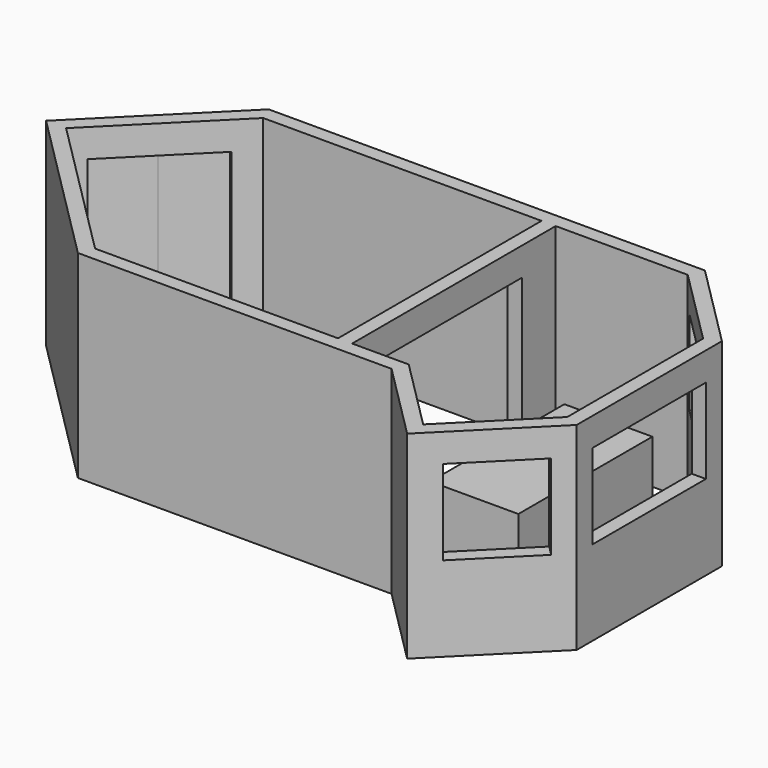
from build123d import *

# Parameters (mm, degrees)
F1_DEPTH  = 2133.6
F2_W      = 609.6
F2_H      = 1828.8
F3_DEPTH  = 38.1
F5_W      = 1219.2
F5_H      = 304.8
F6_DEPTH  = 152.4
F7_W      = 1524
F7_H      = 914.4
F8_DEPTH  = 152.4
F9_W      = 1828.8
F9_H      = 304.8
F10_DEPTH = 152.4
F11_W     = 914.4
F11_H     = 914.4
F12_DEPTH = 152.4
F13_W     = 914.4
F13_H     = 914.4
F14_DEPTH = 152.4
F15_W     = 947.42
F15_H     = 1803.4
F16_DEPTH = 787.4


with BuildPart() as f1:
    # F0 (on Top) → F1 (new body)
    with BuildSketch(Plane.XY):
        Polygon((-190.3130734528, -190.3130734528), (0, 0), (2997.2, 0), (2997.2, -455.7045876226), (3149.6, -455.7045876226), (3149.6, 0), (4572, 0), (5398.1835631384, -826.1835631384), (5398.1835631384, -2654.9835631384), (4536.0789755157, -3517.088150761), (3759.2, -2740.2091752453), (3149.6, -2740.2091752453), (3149.6, -2284.5045876226), (2997.2, -2284.5045876226), (2997.2, -2740.2091752453), (381, -2740.2091752453), (-1179.6045876226, -1179.6045876226), (-1052.4176610755, -1052.4176610755), (-1160.1807345283, -944.6545876226), (-1395.1307345283, -1179.6045876226), (317.8738530943, -2892.6091752453), (3696.0738530943, -2892.6091752453), (4536.0789755157, -3732.6142976667), (5550.5835631384, -2718.109710044), (5550.5835631384, -763.0574162327), (4635.1261469057, 152.4), (-63.1261469057, 152.4), (-298.0761469057, -82.55), align=None)
    extrude(amount=F1_DEPTH)

    # F5 (on face) → F6 (join, through all)
    with BuildSketch(Plane(origin=(-107.7630734528, 107.7630734528, 0), x_dir=(-0.7071067812, -0.7071067812, 0), z_dir=(-0.7071067812, 0.7071067812, 0))):
        with Locations((878.7433295739, 1981.2)):
            Rectangle(F5_W, F5_H)
    extrude(amount=-F6_DEPTH)

    # F7 (on face) → F8 (cut, through all)
    with BuildSketch(Plane.YZ.offset(5550.5835631384)):
        with Locations((-1740.5835631384, 1371.6)):
            Rectangle(F7_W, F7_H)
    extrude(amount=-F8_DEPTH, mode=Mode.SUBTRACT)

    # F9 (on face) → F10 (join, through all)
    with BuildSketch(Plane.YZ.offset(3149.6)):
        with Locations((-1370.1045876226, 1981.2)):
            Rectangle(F9_W, F9_H)
    extrude(amount=-F10_DEPTH)

    # F11 (on face) → F12 (cut, through all)
    with BuildSketch(Plane(origin=(2286, 2286, 0), x_dir=(0.7071067812, -0.7071067812, 0), z_dir=(-0.7071067812, -0.7071067812, 0))):
        with Locations((3817.0922035849, 1371.6)):
            Rectangle(F11_W, F11_H)
    extrude(amount=-F12_DEPTH, mode=Mode.SUBTRACT)

    # F13 (on face) → F14 (cut, through all)
    with BuildSketch(Plane(origin=(4026.5835631384, -4026.5835631384, 0), x_dir=(-0.7071067812, -0.7071067812, 0), z_dir=(-0.7071067812, 0.7071067812, 0))):
        with Locations((-1330.1353221509, 1371.6)):
            Rectangle(F13_W, F13_H)
    extrude(amount=-F14_DEPTH, mode=Mode.SUBTRACT)


with BuildPart() as f3:
    # F2 (on face) → F3 (new body)
    with BuildSketch(Plane(origin=(-107.7630734528, 107.7630734528, 0), x_dir=(-0.7071067812, -0.7071067812, 0), z_dir=(-0.7071067812, 0.7071067812, 0))):
        with Locations((573.9433295739, 914.4)):
            Rectangle(F2_W, F2_H)
    extrude(amount=-F3_DEPTH)


with BuildPart() as f4_1:
    # F4: copy of F3
    add(f3.part.moved(Location((-431.0522938113, -431.0522938113, 0))))


with BuildPart() as f16:
    # F15 (on Top) → F16 (new body)
    with BuildSketch(Plane.XY):
        with Locations((4091.7145876226, -1370.1045876226)):
            Rectangle(F15_W, F15_H)
    extrude(amount=F16_DEPTH)


solid = Compound([f1.part, f3.part, f4_1.part, f16.part])
